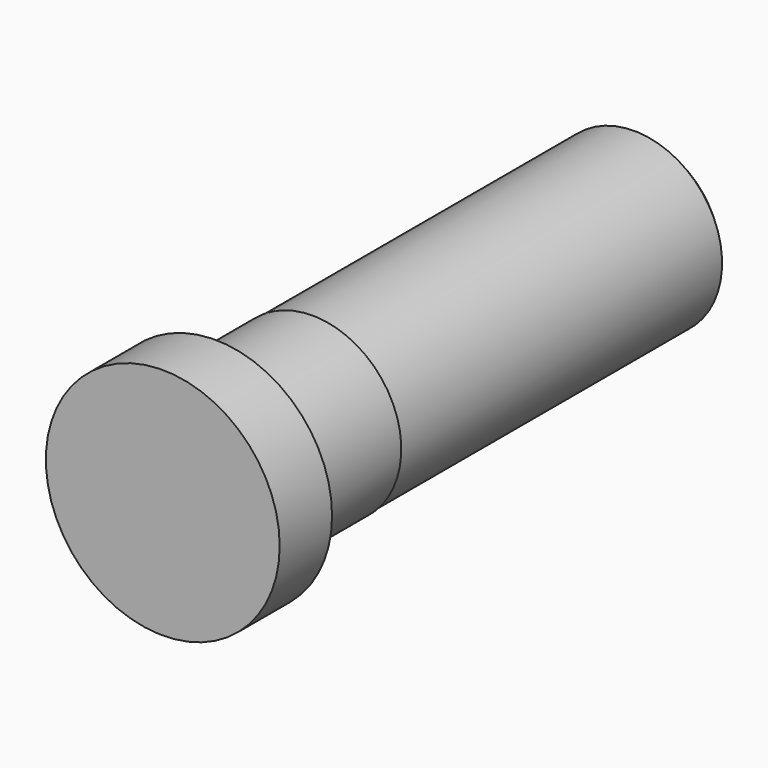
from build123d import *

# Parameters (mm, degrees)
F0_R     = 6.25
F1_DEPTH = 3.5
F2_R     = 4.75
F3_DEPTH = 6.5
F4_R     = 4.7
F5_DEPTH = 22
F6_SIZE  = 0.5


with BuildPart() as f1:
    # F0 (on Front) → F1 (new body)
    with BuildSketch(Plane.XZ):
        Circle(F0_R)
    extrude(amount=-F1_DEPTH)

    # F2 (on face) → F3 (join)
    with BuildSketch(Plane(origin=(0, 3.5, 0), x_dir=(-1, 0, 0), z_dir=(0, 1, 0))):
        Circle(F2_R)
    extrude(amount=F3_DEPTH)

    # F4 (on face) → F5 (join)
    with BuildSketch(Plane(origin=(0, 10, 0), x_dir=(-1, 0, 0), z_dir=(0, 1, 0))):
        Circle(F4_R)
    extrude(amount=F5_DEPTH)

    # F6
    f6_edges = [f1.edges().sort_by_distance(p)[0] for p in [
        (4.7, 32, 0),
    ]]
    chamfer(f6_edges, length=F6_SIZE)


solid = f1.part
